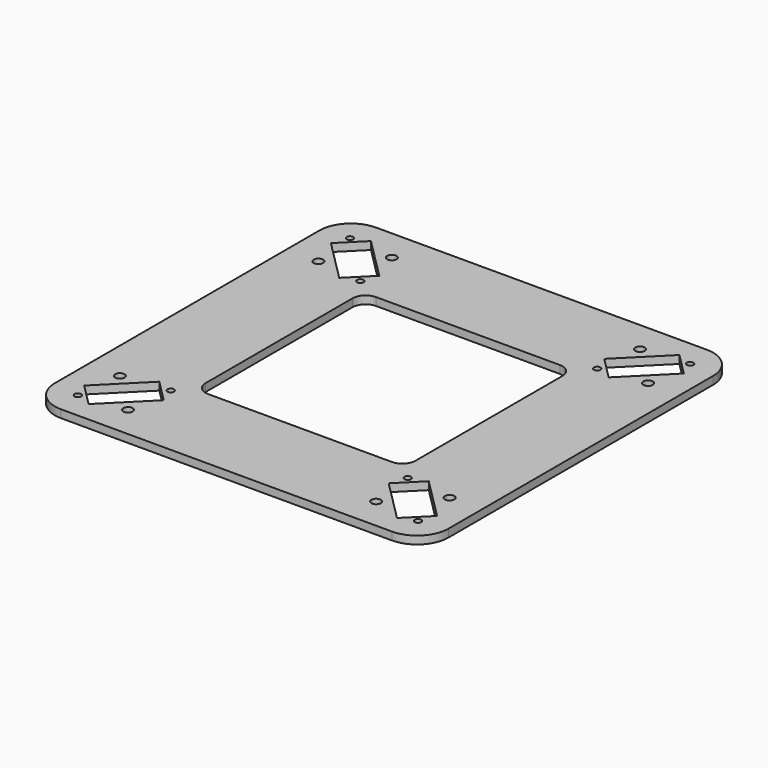
from build123d import *

# Parameters (mm, degrees)
F0_R     = 1.8
F1_DEPTH = 3
F2_R     = 1.25
F3_DEPTH = 3.001


with BuildPart() as f1:
    # F0 (on Top) → F1 (new body)
    with BuildSketch(Plane.XY):
        with BuildLine():
            Line((63, 75), (-63, 75))
            ThreePointArc((-63, 75), (-71.485281, 71.485281), (-75, 63))
            Line((-75, 63), (-75, -63))
            ThreePointArc((-75, -63), (-71.485281, -71.485281), (-63, -75))
            Line((-63, -75), (63, -75))
            ThreePointArc((63, -75), (71.485281, -71.485281), (75, -63))
            Line((75, -63), (75, 63))
            ThreePointArc((75, 63), (71.485281, 71.485281), (63, 75))
        make_face()
        with Locations((-47.266874, -62.823223)):
            Circle(F0_R, mode=Mode.SUBTRACT)
        with Locations((-62.823223, -47.266874)):
            Circle(F0_R, mode=Mode.SUBTRACT)
        Polygon((-58.757359, -67.242641), (-67.242641, -58.757359), (-51.332738, -42.847457), (-42.847457, -51.332738), align=None, mode=Mode.SUBTRACT)
        with Locations((47.266874, -62.823223)):
            Circle(F0_R, mode=Mode.SUBTRACT)
        Polygon((42.847457, -51.332738), (51.332738, -42.847457), (67.242641, -58.757359), (58.757359, -67.242641), align=None, mode=Mode.SUBTRACT)
        with Locations((62.823223, -47.266874)):
            Circle(F0_R, mode=Mode.SUBTRACT)
        with Locations((-62.823223, 47.266874)):
            Circle(F0_R, mode=Mode.SUBTRACT)
        Polygon((-67.242641, 58.757359), (-58.757359, 67.242641), (-42.847457, 51.332738), (-51.332738, 42.847457), align=None, mode=Mode.SUBTRACT)
        with Locations((-47.266874, 62.823223)):
            Circle(F0_R, mode=Mode.SUBTRACT)
        with BuildLine():
            Line((-40, -35), (-40, 0))
            Line((-40, 0), (-40, 35))
            ThreePointArc((-40, 35), (-38.535534, 38.535534), (-35, 40))
            Line((-35, 40), (0, 40))
            Line((0, 40), (35, 40))
            ThreePointArc((35, 40), (38.535534, 38.535534), (40, 35))
            Line((40, 35), (40, 0))
            Line((40, 0), (40, -35))
            ThreePointArc((40, -35), (38.535534, -38.535534), (35, -40))
            Line((35, -40), (0, -40))
            Line((0, -40), (-35, -40))
            ThreePointArc((-35, -40), (-38.535534, -38.535534), (-40, -35))
        make_face(mode=Mode.SUBTRACT)
        Polygon((51.332738, 42.847457), (42.847457, 51.332738), (58.757359, 67.242641), (67.242641, 58.757359), align=None, mode=Mode.SUBTRACT)
        with Locations((62.823223, 47.266874)):
            Circle(F0_R, mode=Mode.SUBTRACT)
        with Locations((47.266874, 62.823223)):
            Circle(F0_R, mode=Mode.SUBTRACT)
    extrude(amount=F1_DEPTH)

    # F2 (on face) → F3 (cut, through all)
    with BuildSketch(Plane.XY.offset(3)):
        with Locations((-64.80856, -64.80856)):
            Circle(F2_R)
        with Locations((-45.123414, -45.123414)):
            Circle(F2_R)
        with Locations((45.123414, -45.123414)):
            Circle(F2_R)
        with Locations((45.123414, 45.123414)):
            Circle(F2_R)
        with Locations((-45.123414, 45.123414)):
            Circle(F2_R)
        with Locations((64.80856, -64.80856)):
            Circle(F2_R)
        with Locations((64.80856, 64.80856)):
            Circle(F2_R)
        with Locations((-64.80856, 64.80856)):
            Circle(F2_R)
    extrude(amount=-F3_DEPTH, mode=Mode.SUBTRACT)


with BuildPart() as f4_1:
    # F4: copy of F1
    add(f1.part.moved(Location((0, 0, 20))))


solid = f1.part
